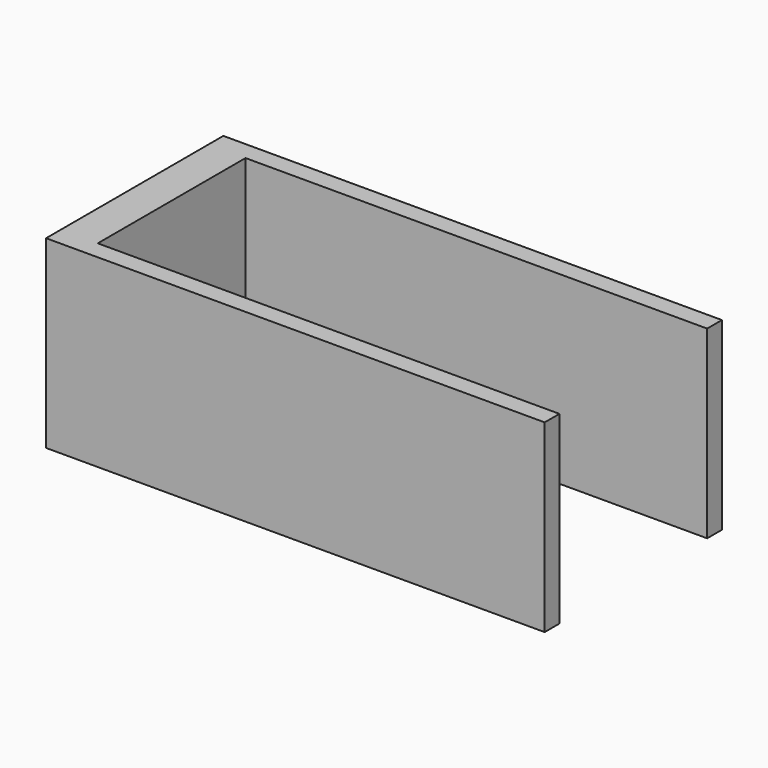
from build123d import *

# Parameters (mm, degrees)
PAD_DEPTH = 10


with BuildPart() as part:
    # Sketch → Pad (new body)
    with BuildSketch(Plane.XY):
        Polygon((0, 12), (0, 0), (27, 0), (27, 1), (2, 1), (2, 11), (27, 11), (27, 12), align=None)
    extrude(amount=PAD_DEPTH)


solid = part.part
